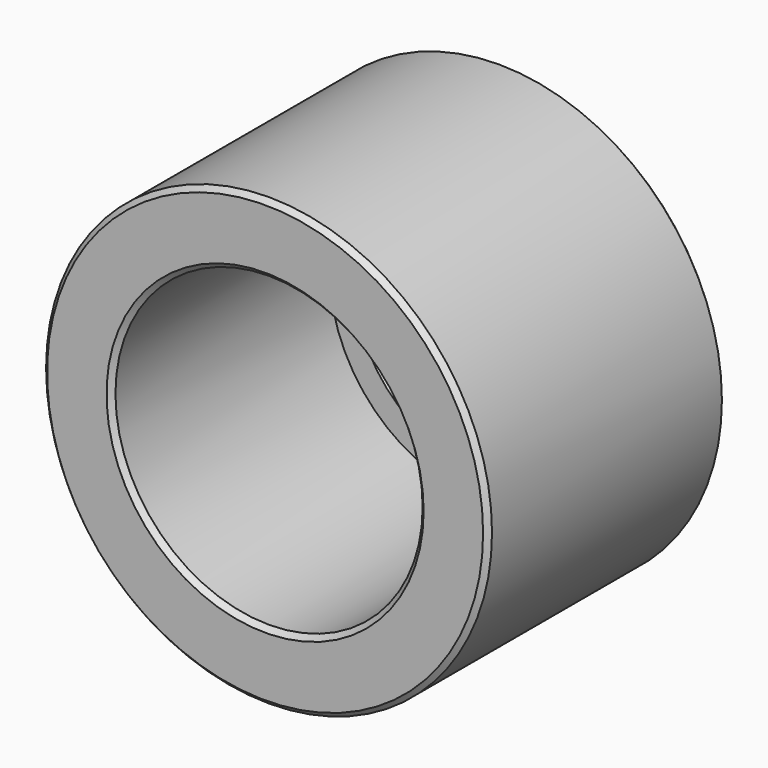
from build123d import *

# Parameters (mm, degrees)
F0_R     = 45
F1_DEPTH = 60
F2_R     = 31
F3_DEPTH = 55
F4_R     = 25
F5_DEPTH = 25
F6_SIZE  = 1


with BuildPart() as f1:
    # F0 (on Front) → F1 (new body)
    with BuildSketch(Plane.XZ):
        Circle(F0_R)
    extrude(amount=F1_DEPTH)

    # F2 (on face) → F3 (cut)
    with BuildSketch(Plane.XZ.offset(60)):
        Circle(F2_R)
    extrude(amount=-F3_DEPTH, mode=Mode.SUBTRACT)

    # F4 (on face) → F5 (cut)
    with BuildSketch(Plane.XZ.offset(5)):
        Circle(F4_R)
    extrude(amount=-F5_DEPTH, mode=Mode.SUBTRACT)

    # F6
    f6_edges = [f1.edges().sort_by_distance(p)[0] for p in [
        (-45, -60, 0),
        (-31, -60, 0),
        (-45, 0, 0),
        (-25, 0, 0),
        (-25, -5, 0),
    ]]
    chamfer(f6_edges, length=F6_SIZE)


solid = f1.part
